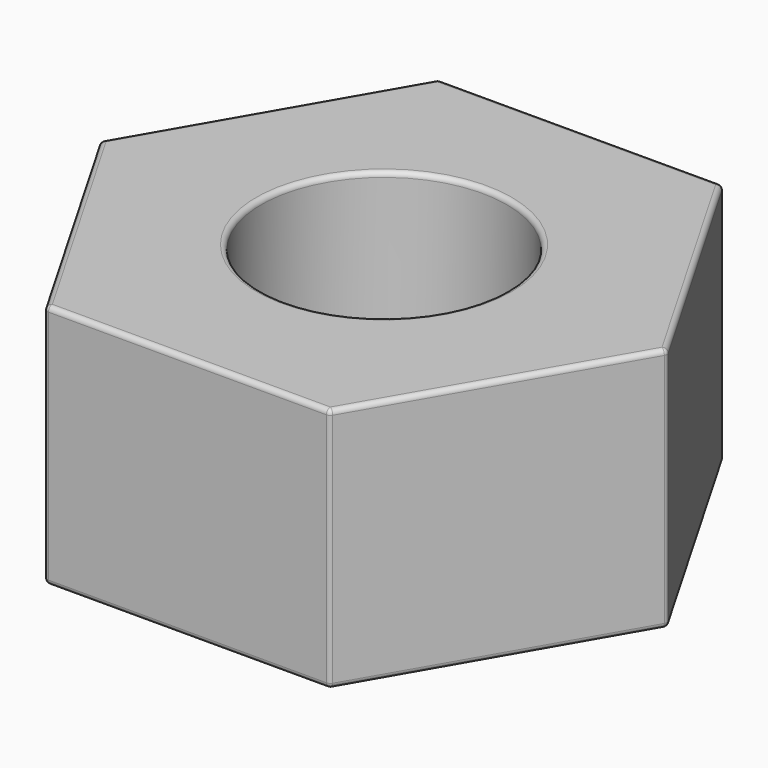
from build123d import *

# Parameters (mm, degrees)
F0_R     = 2.5
F1_DEPTH = 5
F2_R     = 0.1


with BuildPart() as f1:
    # F0 (on Top) → F1 (new body)
    with BuildSketch(Plane.XY):
        Polygon((5.773503, 0), (2.886751, 5), (-2.886751, 5), (-5.773503, 0), (-2.886751, -5), (2.886751, -5), align=None)
        Circle(F0_R, mode=Mode.SUBTRACT)
    extrude(amount=F1_DEPTH)

    # F2
    f2_edges = [f1.edges().sort_by_distance(p)[0] for p in [
        (-2.886751, -5, 2.5),
        (2.886751, -5, 2.5),
        (0, -5, 0),
        (0, -5, 5),
        (-5.773503, 0, 2.5),
        (-4.330127, -2.5, 0),
        (-4.330127, -2.5, 5),
        (5.773503, 0, 2.5),
        (4.330127, -2.5, 0),
        (4.330127, -2.5, 5),
        (2.886751, 5, 2.5),
        (4.330127, 2.5, 0),
        (4.330127, 2.5, 5),
        (-2.886751, 5, 2.5),
        (0, 5, 0),
        (0, 5, 5),
        (-4.330127, 2.5, 0),
        (-4.330127, 2.5, 5),
        (-2.5, 0, 5),
    ]]
    fillet(f2_edges, radius=F2_R)


solid = f1.part
